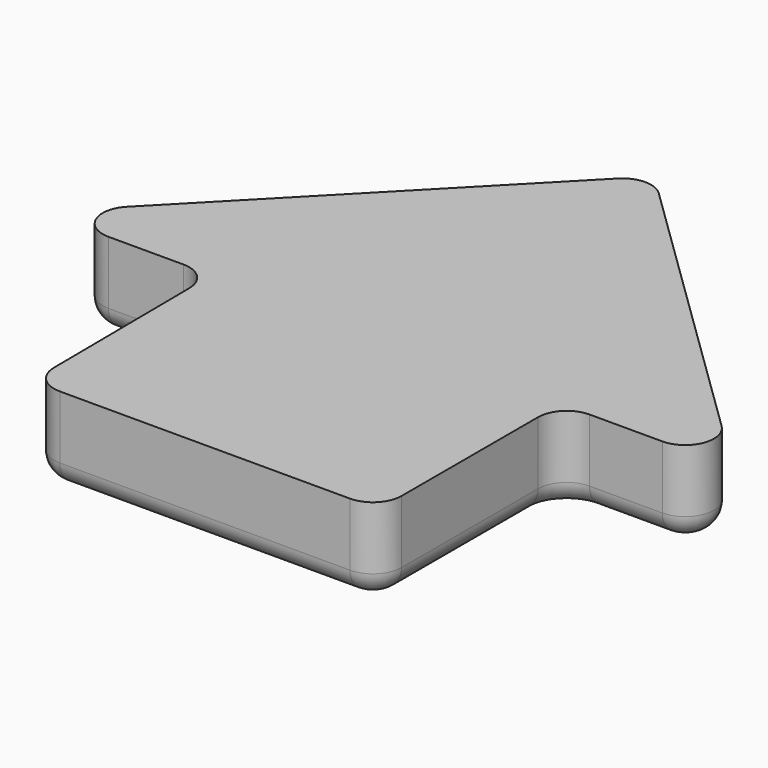
from build123d import *

# Parameters (mm, degrees)
F1_DEPTH = 19.05
F2_R     = 5.08


with BuildPart() as f1:
    # F0 (on Top) → F1 (new body)
    with BuildSketch(Plane.XY):
        with BuildLine():
            ThreePointArc((38.975515, -3.440669), (40.835387, 1.049459), (45.325515, 2.909331))
            Line((45.325515, 2.909331), (61.458508, 2.909331))
            ThreePointArc((61.458508, 2.909331), (67.341307, 6.868686), (65.888014, 13.809274))
            Line((65.888014, 13.809274), (2.81784, 75.209965))
            ThreePointArc((2.81784, 75.209965), (-1.696828, 77.009451), (-6.161608, 75.089527))
            Line((-6.161608, 75.089527), (-65.937009, 13.688836))
            ThreePointArc((-65.937009, 13.688836), (-67.237273, 6.790005), (-61.387065, 2.909331))
            Line((-61.387065, 2.909331), (-44.756616, 2.909331))
            ThreePointArc((-44.756616, 2.909331), (-40.285175, 1.068068), (-38.406835, -3.387924))
            Line((-38.406835, -3.387924), (-38.091605, -41.337081))
            ThreePointArc((-38.091605, -41.337081), (-36.213265, -45.793073), (-31.741824, -47.634335))
            Line((-31.741824, -47.634335), (32.625515, -47.634335))
            ThreePointArc((32.625515, -47.634335), (37.115643, -45.774463), (38.975515, -41.284335))
            Line((38.975515, -41.284335), (38.975515, -3.440669))
        make_face()
    extrude(amount=F1_DEPTH)

    # F2
    f2_edges = [f1.edges().sort_by_distance(p)[0] for p in [
        (40.835387, 1.049459, 0),
        (53.392012, 2.909331, 0),
        (67.341307, 6.868686, 0),
        (34.352927, 44.509619, 0),
        (-1.696828, 77.009451, 0),
        (-36.049308, 44.389181, 0),
        (-67.237273, 6.790005, 0),
        (-53.071841, 2.909331, 0),
        (-40.285175, 1.068068, 0),
        (-38.24922, -22.362502, 0),
        (-36.213265, -45.793073, 0),
        (0.441845, -47.634335, 0),
        (37.115643, -45.774463, 0),
        (38.975515, -22.362502, 0),
    ]]
    fillet(f2_edges, radius=F2_R)


solid = f1.part
